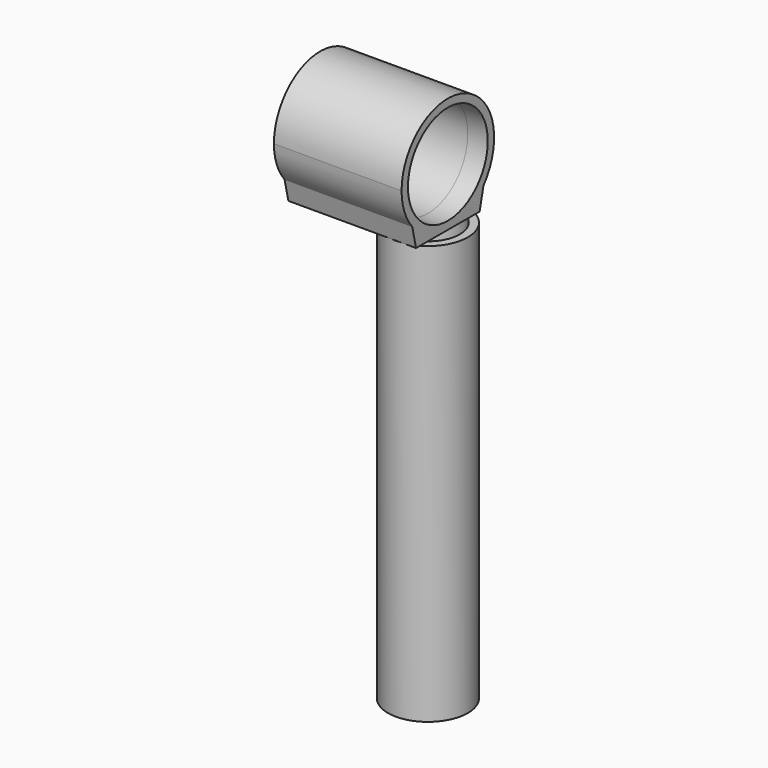
from build123d import *

# Parameters (mm, degrees)
F0_R          = 10
F0_R_2        = 8
F1_DEPTH      = 105
F3_R          = 12.5
F4_DEPTH      = 27
F4_DEPTH_BACK = 5


with BuildPart() as f1:
    # F0 (on Top) → F1 (new body)
    with BuildSketch(Plane.XY):
        Circle(F0_R)
        Circle(F0_R_2, mode=Mode.SUBTRACT)
        Circle(F0_R)
        Circle(F0_R_2, mode=Mode.SUBTRACT)
    extrude(amount=F1_DEPTH)

    # F3 (on face) → F4 (join, two sides)
    with BuildSketch(Plane(origin=(0, 0, 0), x_dir=(0, -1, 0), z_dir=(-1, 0, 0))) as f4_sk:
        with BuildLine():
            ThreePointArc((11.172051, 110.266167), (13.642667, 114.5973), (14.5, 119.509288))
            ThreePointArc((14.5, 119.509288), (-4.920183, 133.149002), (-11.160938, 110.252752))
            ThreePointArc((-11.160938, 110.252752), (-6.435198, 106.515512), (-0.598424, 105.021642))
            ThreePointArc((-0.598424, 105.021642), (-0.271382, 105.011828), (0.055797, 105.009396))
            ThreePointArc((0.055797, 105.009396), (6.198754, 106.401068), (11.172051, 110.266167))
        make_face()
        with Locations((0, 119.509288)):
            Circle(F3_R, mode=Mode.SUBTRACT)
        with BuildLine():
            ThreePointArc((-0.598424, 105.021642), (-6.435198, 106.515512), (-11.160938, 110.252752))
            Line((-11.160938, 110.252752), (-9.952081, 104.985648))
            Line((-9.952081, 104.985648), (-0.598424, 105.021642))
        make_face()
        with BuildLine():
            Line((9.969966, 105.047546), (11.172051, 110.266167))
            ThreePointArc((11.172051, 110.266167), (6.198754, 106.401068), (0.055797, 105.009396))
            Line((0.055797, 105.009396), (9.969966, 105.047546))
        make_face()
    extrude(amount=F4_DEPTH)
    extrude(f4_sk.sketch, amount=-F4_DEPTH_BACK)


solid = f1.part
